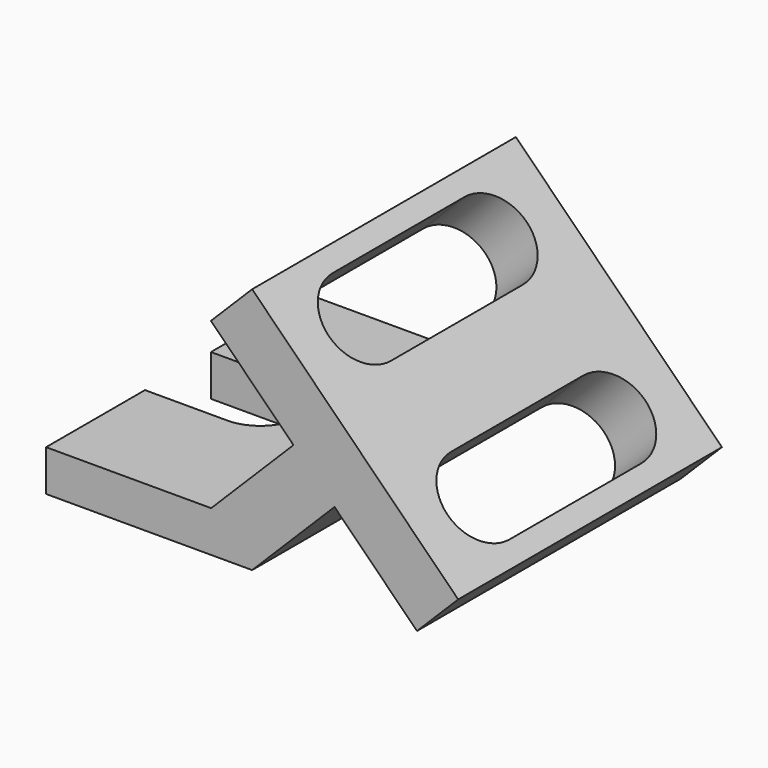
from build123d import *

# Parameters (mm, degrees)
F1_DEPTH = 101.6
F4_DEPTH = 25.401
F5_DEPTH = 76.2


with BuildPart() as f1:
    # F0 (on Front) → F1 (new body, symmetric)
    with BuildSketch(Plane.XZ):
        Polygon((0, 25.4), (0, 0), (127, 0), (177.8, 50.8), (228.6, 0), (254, 25.4), (127, 152.4), (101.6, 127), (152.475678, 76.124322), (101.751356, 25.4), align=None)
    extrude(amount=F1_DEPTH, both=True)

    # F3 (on face) → F4 (cut, through all)
    with BuildSketch(Plane.XY.offset(25.4)):
        with BuildLine():
            Line((50.8, 25.4), (0, 25.4))
            Line((0, 25.4), (0, -25.4))
            Line((0, -25.4), (50.8, -25.4))
            ThreePointArc((50.8, -25.4), (76.2, 0), (50.8, 25.4))
        make_face()
    extrude(amount=-F4_DEPTH, mode=Mode.SUBTRACT)

    # F2 (on face) → F5 (cut)
    with BuildSketch(Plane(origin=(139.7, 0, 139.7), x_dir=(0, 1, 0), z_dir=(0.707107, 0, 0.707107))):
        with BuildLine():
            ThreePointArc((50.8, -45.539488), (76.2, -20.139488), (50.8, 5.260512))
            Line((50.8, 5.260512), (-50.8, 5.260512))
            ThreePointArc((-50.8, 5.260512), (-76.2, -20.139488), (-50.8, -45.539488))
            Line((-50.8, -45.539488), (50.8, -45.539488))
        make_face()
        with BuildLine():
            Line((-50.8, -148.94461), (50.8, -148.94461))
            ThreePointArc((50.8, -148.94461), (76.2, -123.54461), (50.8, -98.14461))
            Line((50.8, -98.14461), (-50.8, -98.14461))
            ThreePointArc((-50.8, -98.14461), (-76.2, -123.54461), (-50.8, -148.94461))
        make_face()
    extrude(amount=-F5_DEPTH, mode=Mode.SUBTRACT)


solid = f1.part
